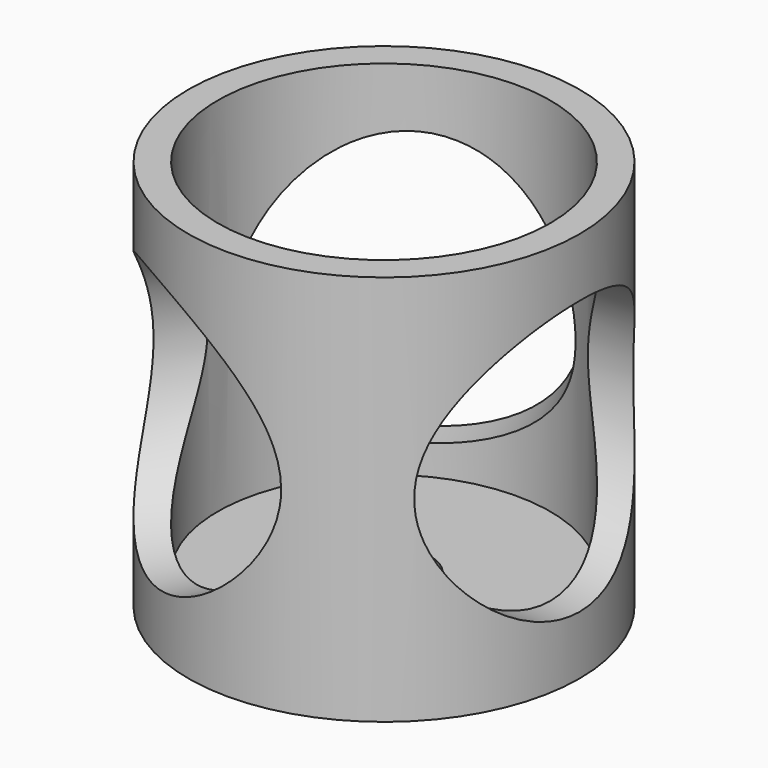
from build123d import *

# Parameters (mm, degrees)
CYLINDER_R         = 14
CYLINDER_DEPTH     = 100
POLARPATTERN_COUNT = 3


with BuildPart() as part:
    # Sketch → Revolution (revolve)
    with BuildSketch(Plane.XZ):
        Polygon((4.7, 0), (20, 0), (20, 40), (17, 40), (17, 3), (4.7, 3), align=None)
    revolve(axis=Axis((0, 0, 0), (0, 0, 1)))

    # Cylinder → Cylinder (cut)
    with BuildSketch(Plane(origin=(0, 0, 20), x_dir=(0, 1, 0), z_dir=(1, 0, 0))):
        Circle(CYLINDER_R)
    cylinder = extrude(amount=CYLINDER_DEPTH, mode=Mode.SUBTRACT)

    # PolarPattern: Cylinder ×3 about axis
    polarpattern_axis = Axis((0, 0, 0), (0, 0, 1))
    for i in range(1, POLARPATTERN_COUNT):
        add(cylinder.rotate(polarpattern_axis, i * 360 / POLARPATTERN_COUNT), mode=Mode.SUBTRACT)


solid = part.part
